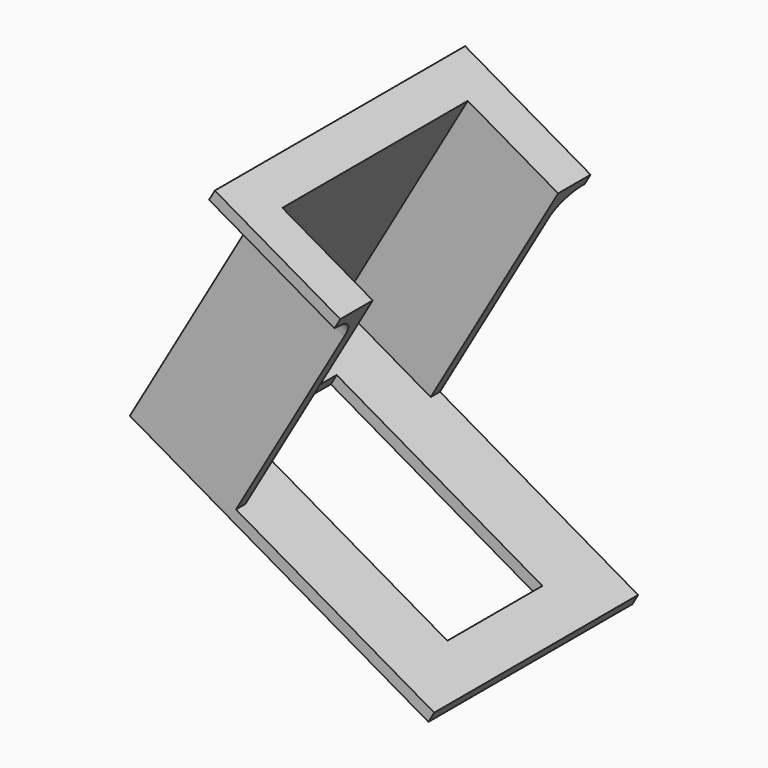
from build123d import *

# Parameters (mm, degrees)
SKETCH029_W             = 59.5
SKETCH029_H             = 44
SKETCH029_W_2           = 41
SKETCH029_H_2           = 20.5
PAD015_DEPTH            = 2
PAD016_DEPTH            = 44
PAD017_DEPTH            = 2
FILLET_R                = 4.5
BODY011_PLACEMENT_ANGLE = 210


with BuildPart() as part:
    # Sketch029 → Pad015 (new body)
    with BuildSketch(Plane.XY):
        with Locations((1.25, 0.25)):
            Rectangle(SKETCH029_W, SKETCH029_H)
        Rectangle(SKETCH029_W_2, SKETCH029_H_2, mode=Mode.SUBTRACT)
    extrude(amount=PAD015_DEPTH)

    # Sketch030 (on Face9 of Pad015) → Pad016 (join)
    with BuildSketch(Plane(origin=(0, 0, 0), x_dir=(1, 0, 0), z_dir=(0, 0, -1))):
        Polygon((31, 21.75), (31, -22.25), (11, -22.25), (11, -20.25), (29, -20.25), (29, 19.75), (11, 19.75), (11, 21.75), align=None)
    extrude(amount=PAD016_DEPTH)

    # Sketch031 (on Face18 of Pad016) → Pad017 (join)
    with BuildSketch(Plane(origin=(0, 0, -44), x_dir=(1, 0, 0), z_dir=(0, 0, -1))):
        Polygon((11, 19.75), (11, 26.75), (36, 26.75), (36, -27.25), (11, -27.25), (11, -20.25), (29, -20.25), (29, 19.75), align=None)
    extrude(amount=-PAD017_DEPTH)

    # Fillet
    fillet_edges = [part.edges().sort_by_distance(p)[0] for p in [
        (31, 0.25, -42),
        (21, 22.25, -42),
        (21, -21.75, -42),
    ]]
    fillet(fillet_edges, radius=FILLET_R)


with BuildPart() as part_1:
    # Body011 placement: moved
    add(part.part.moved(Location((-6.411543, 0, -47.105118))).rotate(Axis((-6.411543, 0, -47.105118), (0, 1, 0)), BODY011_PLACEMENT_ANGLE))


solid = part_1.part
